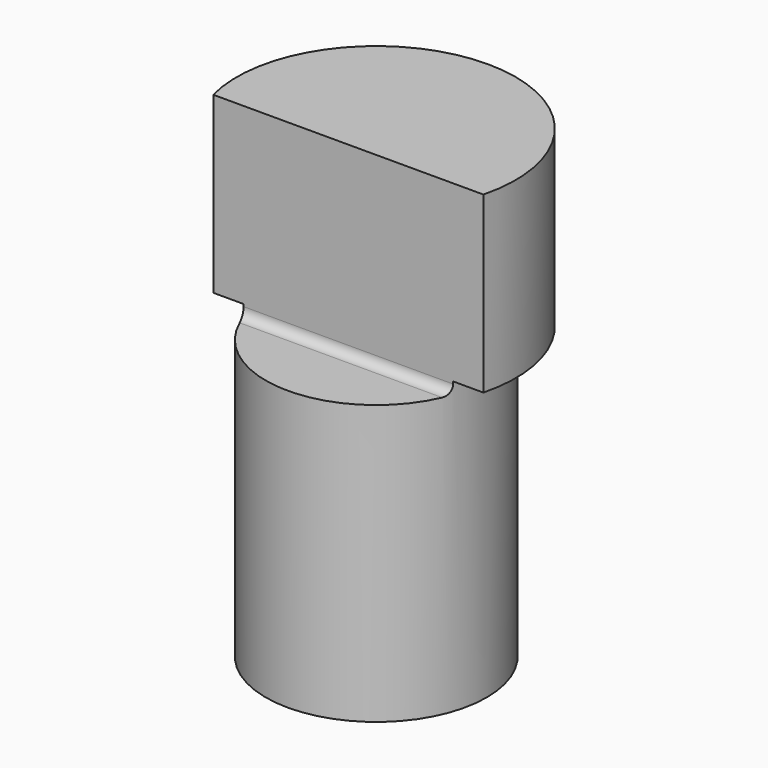
from build123d import *

# Parameters (mm, degrees)
F0_R     = 9.5
F1_DEPTH = 25
F2_R     = 12
F2_R_2   = 9.5
F3_DEPTH = 15
F7_DEPTH = 12.5
F8_R     = 0.8


with BuildPart() as f1:
    # F0 (on Top) → F1 (new body)
    with BuildSketch(Plane.XY):
        Circle(F0_R)
    extrude(amount=-F1_DEPTH)

    # F2 (on face) → F3 (join)
    with BuildSketch(Plane.XY):
        Circle(F2_R)
        Circle(F2_R_2, mode=Mode.SUBTRACT)
        Circle(F2_R_2)
    extrude(amount=F3_DEPTH)

    # F6 (on Right) → F7 (cut, symmetric)
    with BuildSketch(Plane.YZ):
        Polygon((-9.5, -1), (-3, -1), (-3, 15), (-12, 15), (-12, 0), (-9.5, 0), align=None)
    extrude(amount=F7_DEPTH, both=True, mode=Mode.SUBTRACT)

    # F8
    f8_edges = [f1.edges().sort_by_distance(p)[0] for p in [
        (0, -3, -1),
    ]]
    fillet(f8_edges, radius=F8_R)


solid = f1.part
